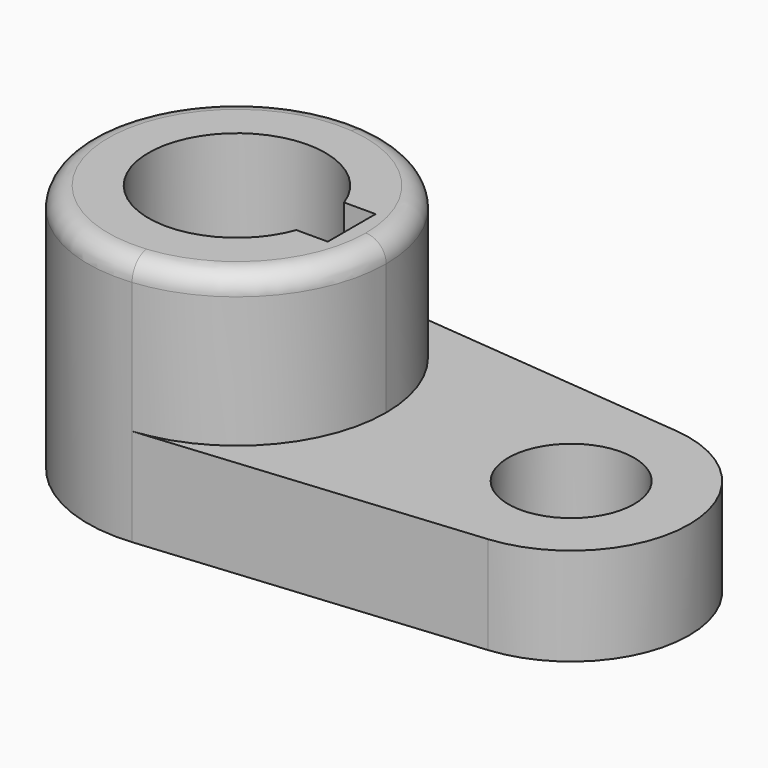
from build123d import *

# Parameters (mm, degrees)
F1_DEPTH = 40.2336
F0_R     = 10.16
F2_DEPTH = 15.7734
F3_R     = 3.302


with BuildPart() as f1:
    # F0 (on Top) → F1 (new body)
    with BuildSketch(Plane.XY):
        with BuildLine():
            ThreePointArc((-27.377507, -23.993331), (-11.81204, -16.223986), (-5.532807, 0))
            ThreePointArc((-5.532807, 0), (-11.81204, 16.223986), (-27.377507, 23.993331))
            ThreePointArc((-27.377507, 23.993331), (-53.730808, 0), (-27.377507, -23.993331))
        make_face()
        with BuildLine():
            ThreePointArc((-16.184043, -4.826), (-43.919307, 0), (-16.184043, 4.826))
            Line((-16.184043, 4.826), (-11.102507, 4.826))
            Line((-11.102507, 4.826), (-11.102507, -4.826))
            Line((-11.102507, -4.826), (-16.184043, -4.826))
        make_face(mode=Mode.SUBTRACT)
    extrude(amount=F1_DEPTH)

    # F0 (on Top) → F2 (join)
    with BuildSketch(Plane.XY):
        with BuildLine():
            ThreePointArc((-27.377507, 23.993331), (-11.81204, 16.223986), (-5.532807, 0))
            ThreePointArc((-5.532807, 0), (-11.81204, -16.223986), (-27.377507, -23.993331))
            Line((-27.377507, -23.993331), (26.125193, -18.96647))
            ThreePointArc((26.125193, -18.96647), (43.393193, 0), (26.125193, 18.96647))
            Line((26.125193, 18.96647), (-27.377507, 23.993331))
        make_face()
        with Locations((24.343193, 0)):
            Circle(F0_R, mode=Mode.SUBTRACT)
        with BuildLine():
            ThreePointArc((-27.377507, 23.993331), (-11.81204, 16.223986), (-5.532807, 0))
            ThreePointArc((-5.532807, 0), (-11.81204, -16.223986), (-27.377507, -23.993331))
            Line((-27.377507, -23.993331), (26.125193, -18.96647))
            ThreePointArc((26.125193, -18.96647), (43.393193, 0), (26.125193, 18.96647))
            Line((26.125193, 18.96647), (-27.377507, 23.993331))
        make_face()
        with Locations((24.343193, 0)):
            Circle(F0_R, mode=Mode.SUBTRACT)
    extrude(amount=F2_DEPTH)

    # F3
    f3_edges = [f1.edges().sort_by_distance(p)[0] for p in [
        (-31.886108, 23.993331, 40.2336),
    ]]
    fillet(f3_edges, radius=F3_R)


solid = f1.part
